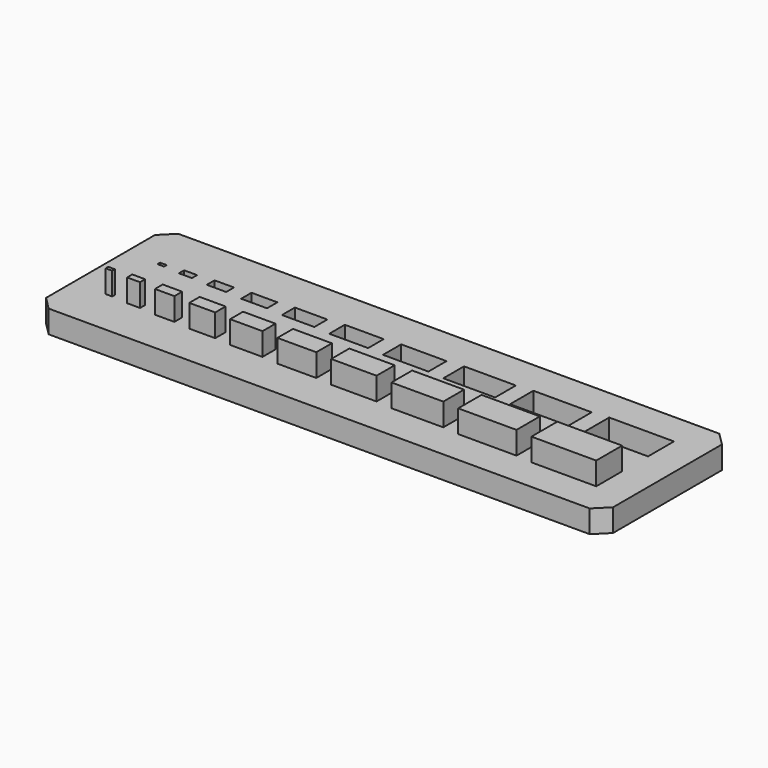
from build123d import *

# Parameters (mm, degrees)
F0_W     = 87.5
F0_H     = 25
F0_W_2   = 1
F0_H_2   = 0.5
F0_W_3   = 2
F0_H_3   = 1
F0_W_4   = 3
F0_H_4   = 1.5
F0_W_5   = 4
F0_H_5   = 2
F0_W_6   = 5
F0_H_6   = 2.5
F0_W_7   = 6
F0_H_7   = 3
F0_W_8   = 7
F0_H_8   = 3.5
F0_W_9   = 8
F0_H_9   = 4
F0_W_10  = 9
F0_H_10  = 4.5
F0_W_11  = 10
F0_H_11  = 5
F1_DEPTH = 3.5
F2_DEPTH = 7
F3_SIZE  = 2


with BuildPart() as f1:
    # F0 (on Top) → F1 (new body)
    with BuildSketch(Plane.XY):
        Rectangle(F0_W, F0_H)
        with Locations((-38.25, -5)):
            Rectangle(F0_W_2, F0_H_2, mode=Mode.SUBTRACT)
        with Locations((-34.25, -5)):
            Rectangle(F0_W_3, F0_H_3, mode=Mode.SUBTRACT)
        with Locations((-29.25, -5)):
            Rectangle(F0_W_4, F0_H_4, mode=Mode.SUBTRACT)
        with Locations((-23.25, -5)):
            Rectangle(F0_W_5, F0_H_5, mode=Mode.SUBTRACT)
        with Locations((-16.25, -5)):
            Rectangle(F0_W_6, F0_H_6, mode=Mode.SUBTRACT)
        with Locations((-8.25, -5)):
            Rectangle(F0_W_7, F0_H_7, mode=Mode.SUBTRACT)
        with Locations((0.75, -5)):
            Rectangle(F0_W_8, F0_H_8, mode=Mode.SUBTRACT)
        with Locations((10.75, -5)):
            Rectangle(F0_W_9, F0_H_9, mode=Mode.SUBTRACT)
        with Locations((21.75, -5)):
            Rectangle(F0_W_10, F0_H_10, mode=Mode.SUBTRACT)
        with Locations((33.75, -5)):
            Rectangle(F0_W_11, F0_H_11, mode=Mode.SUBTRACT)
        Polygon((-38.25, 5.25), (-37.75, 5.25), (-37.75, 4.75), (-38.75, 4.75), (-38.75, 5.25), align=None, mode=Mode.SUBTRACT)
        Polygon((-34.25, 5.5), (-33.25, 5.5), (-33.25, 4.5), (-35.25, 4.5), (-35.25, 5.5), align=None, mode=Mode.SUBTRACT)
        Polygon((-30.75, 4.25), (-30.75, 5.75), (-29.25, 5.75), (-27.75, 5.75), (-27.75, 4.25), align=None, mode=Mode.SUBTRACT)
        Polygon((-25.25, 4), (-25.25, 6), (-23.25, 6), (-21.25, 6), (-21.25, 4), align=None, mode=Mode.SUBTRACT)
        Polygon((-18.75, 3.75), (-18.75, 6.25), (-16.25, 6.25), (-13.75, 6.25), (-13.75, 3.75), align=None, mode=Mode.SUBTRACT)
        Polygon((-11.25, 3.5), (-11.25, 6.5), (-8.25, 6.5), (-5.25, 6.5), (-5.25, 3.5), align=None, mode=Mode.SUBTRACT)
        Polygon((-2.75, 3.25), (-2.75, 6.75), (0.75, 6.75), (4.25, 6.75), (4.25, 3.25), align=None, mode=Mode.SUBTRACT)
        Polygon((6.75, 3), (6.75, 7), (10.75, 7), (14.75, 7), (14.75, 3), align=None, mode=Mode.SUBTRACT)
        Polygon((17.25, 2.75), (17.25, 7.25), (21.75, 7.25), (26.25, 7.25), (26.25, 2.75), align=None, mode=Mode.SUBTRACT)
        Polygon((28.75, 2.5), (28.75, 7.5), (33.75, 7.5), (38.75, 7.5), (38.75, 2.5), align=None, mode=Mode.SUBTRACT)
    extrude(amount=F1_DEPTH)

    # F0 (on Top) → F2 (join, through all)
    with BuildSketch(Plane.XY):
        with Locations((-38.25, -5)):
            Rectangle(F0_W_2, F0_H_2)
        with Locations((-34.25, -5)):
            Rectangle(F0_W_3, F0_H_3)
        with Locations((-29.25, -5)):
            Rectangle(F0_W_4, F0_H_4)
        with Locations((-23.25, -5)):
            Rectangle(F0_W_5, F0_H_5)
        with Locations((-16.25, -5)):
            Rectangle(F0_W_6, F0_H_6)
        with Locations((-8.25, -5)):
            Rectangle(F0_W_7, F0_H_7)
        with Locations((0.75, -5)):
            Rectangle(F0_W_8, F0_H_8)
        with Locations((10.75, -5)):
            Rectangle(F0_W_9, F0_H_9)
        with Locations((21.75, -5)):
            Rectangle(F0_W_10, F0_H_10)
        with Locations((33.75, -5)):
            Rectangle(F0_W_11, F0_H_11)
    extrude(amount=F2_DEPTH)

    # F3
    f3_edges = [f1.edges().sort_by_distance(p)[0] for p in [
        (-43.75, -12.5, 1.75),
        (43.75, -12.5, 1.75),
        (43.75, 12.5, 1.75),
        (-43.75, 12.5, 1.75),
    ]]
    chamfer(f3_edges, length=F3_SIZE)


solid = f1.part
